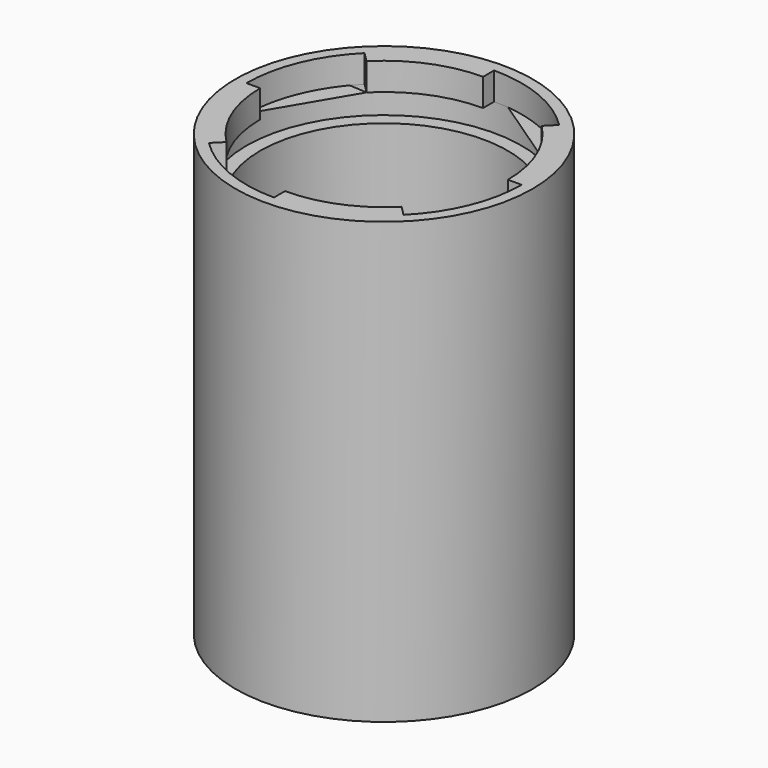
from build123d import *

# Parameters (mm, degrees)
F0_R     = 34.29
F0_R_2   = 28.575
F1_DEPTH = 101.6
F2_W     = 3.175
F2_H     = 6.35
F5_DEPTH = 6.35
F6_R     = 28.575
F7_DEPTH = 3.175


with BuildPart() as f1:
    # F0 (on Top) → F1 (new body)
    with BuildSketch(Plane.XY):
        Circle(F0_R)
        Circle(F0_R_2, mode=Mode.SUBTRACT)
    extrude(amount=-F1_DEPTH)

    # F2 (on Front) → F3 (revolve, cut)
    with BuildSketch(Plane.XZ):
        with Locations((-30.1625, -9.525)):
            Rectangle(F2_W, F2_H)
    revolve(axis=Axis((0, 0, -3.175), (0, 0, -1)), mode=Mode.SUBTRACT)

    # F4 (on face) → F5 (cut)
    with BuildSketch(Plane.XY):
        with BuildLine():
            Line((20.205576, 20.205576), (22.45064, 22.45064))
            ThreePointArc((22.45064, 22.45064), (12.150199, 29.333175), (0, 31.75))
            Line((0, 31.75), (0, 28.575))
            ThreePointArc((0, 28.575), (10.935179, 26.399858), (20.205576, 20.205576))
        make_face()
        with BuildLine():
            Line((-20.205576, 20.205576), (-22.45064, 22.45064))
            ThreePointArc((-22.45064, 22.45064), (-29.333175, 12.150199), (-31.75, 0))
            Line((-31.75, 0), (-28.575, 0))
            ThreePointArc((-28.575, 0), (-26.399858, 10.935179), (-20.205576, 20.205576))
        make_face()
        with BuildLine():
            ThreePointArc((-22.45064, -22.45064), (-12.150199, -29.333175), (0, -31.75))
            Line((0, -31.75), (0, -28.575))
            ThreePointArc((0, -28.575), (-10.935179, -26.399858), (-20.205576, -20.205576))
            Line((-20.205576, -20.205576), (-22.45064, -22.45064))
        make_face()
        with BuildLine():
            ThreePointArc((22.45064, -22.45064), (29.333175, -12.150199), (31.75, 0))
            Line((31.75, 0), (28.575, 0))
            ThreePointArc((28.575, 0), (26.399858, -10.935179), (20.205576, -20.205576))
            Line((20.205576, -20.205576), (22.45064, -22.45064))
        make_face()
    extrude(amount=-F5_DEPTH, mode=Mode.SUBTRACT)

    # F6 (on face) → F7 (join)
    with BuildSketch(Plane(origin=(0, 0, -101.6), x_dir=(1, 0, 0), z_dir=(0, 0, -1))):
        Circle(F6_R)
    extrude(amount=-F7_DEPTH)


solid = f1.part
